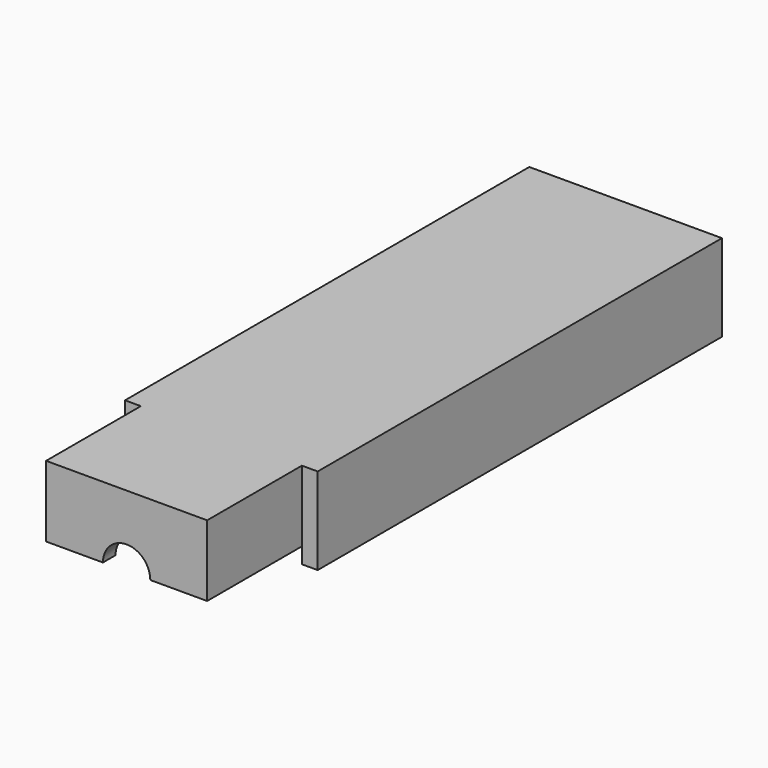
from build123d import *

# Parameters (mm, degrees)
F0_W      = 25.908
F0_H      = 78.74
F1_DEPTH  = 11.43
F3_DEPTH  = 13.97
F6_W      = 12.954
F6_H      = 16.51
F7_DEPTH  = 11.43
F11_DEPTH = 2.54


with BuildPart() as f1:
    # F0 (on Top) → F1 (new body)
    with BuildSketch(Plane.XY):
        Rectangle(F0_W, F0_H)
    extrude(amount=-F1_DEPTH)

    # F2 (on Top) → F3 (join)
    with BuildSketch(Plane.XY):
        Polygon((15.494, 41.91), (-15.494, 41.91), (-15.494, -39.37), (-12.954, -39.37), (-12.954, 39.37), (12.954, 39.37), (12.954, -39.37), (15.494, -39.37), align=None)
    extrude(amount=-F3_DEPTH)

    # F4 (on face) → F5 (revolve, cut)
    with BuildSketch(Plane(origin=(0, 0, -11.43), x_dir=(1, 0, 0), z_dir=(0, 0, -1))):
        Polygon((3.429, -39.37), (5.08, 39.37), (0, 39.37), (0, -39.37), align=None)
    revolve(axis=Axis((0, 0, -11.43), (0, -1, 0)), mode=Mode.SUBTRACT)

    # F6 (on Top) → F7 (join)
    with BuildSketch(Plane.XY):
        with Locations((6.477, -47.625)):
            Rectangle(F6_W, F6_H)
        with Locations((-6.477, -47.625)):
            Rectangle(F6_W, F6_H)
    extrude(amount=-F7_DEPTH)

    # F8 (on face) → F9 (revolve, cut)
    with BuildSketch(Plane(origin=(0, 0, -11.43), x_dir=(1, 0, 0), z_dir=(0, 0, -1))):
        with BuildLine():
            Line((6.35, 55.88), (0, 55.88))
            Line((0, 55.88), (0, 39.37))
            Line((0, 39.37), (5.08, 39.37))
            Line((5.08, 39.37), (6.35, 39.37))
            ThreePointArc((6.35, 39.37), (9.0440768363, 40.4859231637), (10.16, 43.18))
            Line((10.16, 43.18), (10.16, 52.07))
            ThreePointArc((10.16, 52.07), (9.0440768363, 54.7640768363), (6.35, 55.88))
        make_face()
    revolve(axis=Axis((0, -47.625, -11.43), (0, -1, 0)), mode=Mode.SUBTRACT)

    # F10 (on face) → F11 (join)
    with BuildSketch(Plane.XZ.offset(55.88)):
        with BuildLine():
            Line((12.954, 0), (-12.954, 0))
            Line((-12.954, 0), (-12.954, -11.43))
            Line((-12.954, -11.43), (-6.35, -11.43))
            ThreePointArc((-6.35, -11.43), (0, -5.08), (6.35, -11.43))
            Line((6.35, -11.43), (12.954, -11.43))
            Line((12.954, -11.43), (12.954, 0))
        make_face()
        with BuildLine():
            ThreePointArc((6.35, -11.43), (0, -5.08), (-6.35, -11.43))
            Line((-6.35, -11.43), (-3.81, -11.43))
            ThreePointArc((-3.81, -11.43), (0, -7.62), (3.81, -11.43))
            Line((3.81, -11.43), (6.35, -11.43))
        make_face()
    extrude(amount=F11_DEPTH)


solid = f1.part
